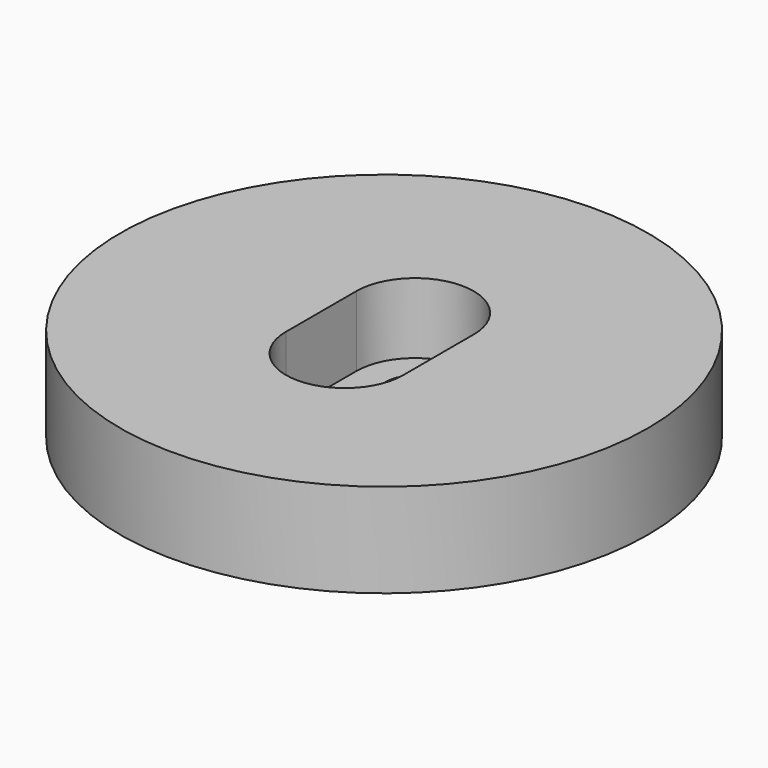
from build123d import *

# Parameters (mm, degrees)
F0_R     = 22.5
F1_DEPTH = 2
F2_DEPTH = 8


with BuildPart() as f1:
    # F0 (on Top) → F1 (new body)
    with BuildSketch(Plane.XY):
        Circle(F0_R)
        with BuildLine():
            Line((5, 3.297524), (5, -4.202476))
            ThreePointArc((5, -4.202476), (0, -9.202476), (-5, -4.202476))
            Line((-5, -4.202476), (-5, 3.297524))
            ThreePointArc((-5, 3.297524), (0, 8.297524), (5, 3.297524))
        make_face(mode=Mode.SUBTRACT)
        with BuildLine():
            ThreePointArc((-5, -4.202476), (-4.557189, -2.145287), (-3.307189, -0.452476))
            ThreePointArc((-3.307189, -0.452476), (-4.557189, 1.240335), (-5, 3.297524))
            Line((-5, 3.297524), (-5, -4.202476))
        make_face()
        with BuildLine():
            ThreePointArc((-2.5, 3.297524), (0, 5.797524), (2.5, 3.297524))
            Line((2.5, 3.297524), (2.5, 0.127651))
            ThreePointArc((2.5, 0.127651), (2.918047, -0.142303), (3.307189, -0.452476))
            ThreePointArc((3.307189, -0.452476), (4.557189, 1.240335), (5, 3.297524))
            ThreePointArc((5, 3.297524), (0, 8.297524), (-5, 3.297524))
            ThreePointArc((-5, 3.297524), (-4.557189, 1.240335), (-3.307189, -0.452476))
            ThreePointArc((-3.307189, -0.452476), (-2.918047, -0.142303), (-2.5, 0.127651))
            Line((-2.5, 0.127651), (-2.5, 3.297524))
        make_face()
        with BuildLine():
            ThreePointArc((5, 3.297524), (4.557189, 1.240335), (3.307189, -0.452476))
            ThreePointArc((3.307189, -0.452476), (4.557189, -2.145287), (5, -4.202476))
            Line((5, -4.202476), (5, 3.297524))
        make_face()
    extrude(amount=F1_DEPTH)

    # F0 (on Top) → F2 (join)
    with BuildSketch(Plane.XY):
        Circle(F0_R)
        with BuildLine():
            Line((5, 3.297524), (5, -4.202476))
            ThreePointArc((5, -4.202476), (0, -9.202476), (-5, -4.202476))
            Line((-5, -4.202476), (-5, 3.297524))
            ThreePointArc((-5, 3.297524), (0, 8.297524), (5, 3.297524))
        make_face(mode=Mode.SUBTRACT)
    extrude(amount=F2_DEPTH)


solid = f1.part
